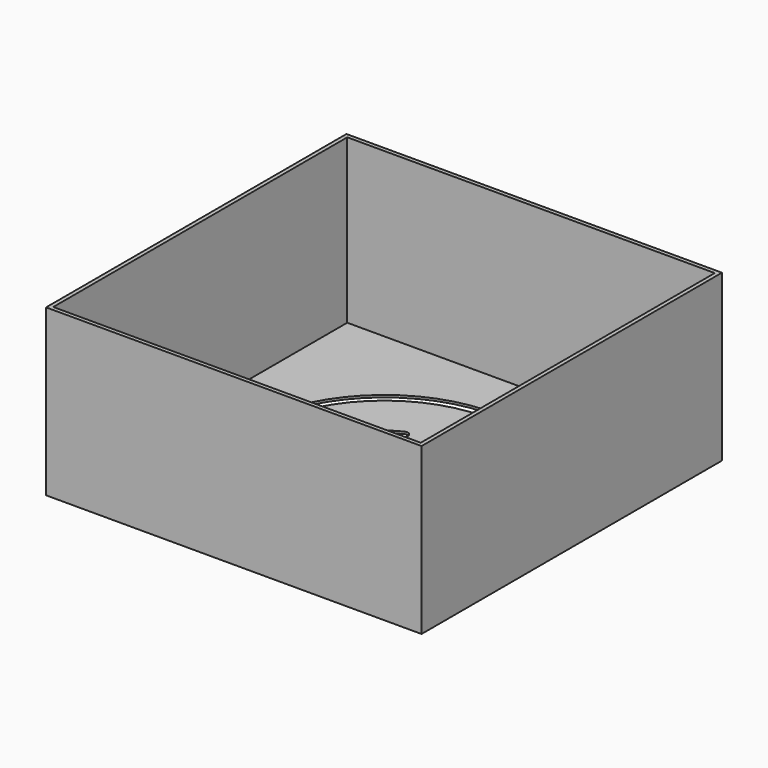
from build123d import *

# Parameters (mm, degrees)
F0_W     = 118
F0_H     = 118
F1_DEPTH = 52
F2_W     = 115.5
F2_H     = 115.5
F3_DEPTH = 51.3
F4_R     = 2
F5_DEPTH = 25


with BuildPart() as f1:
    # F0 (on Top) → F1 (new body)
    with BuildSketch(Plane.XY):
        Rectangle(F0_W, F0_H)
    extrude(amount=F1_DEPTH)

    # F2 (on face) → F3 (cut)
    with BuildSketch(Plane.XY.offset(52)):
        Rectangle(F2_W, F2_H)
    extrude(amount=-F3_DEPTH, mode=Mode.SUBTRACT)

    # F4 (on face) → F5 (cut)
    with BuildSketch(Plane(origin=(0, 0, 0), x_dir=(1, 0, 0), z_dir=(0, 0, -1))):
        with BuildLine():
            ThreePointArc((38.543689, 9.640613), (40.359387, 8.543689), (41.456311, 10.359387))
            ThreePointArc((41.456311, 10.359387), (0, 42.82883), (-41.456311, 10.359387))
            ThreePointArc((-41.456311, 10.359387), (-40.359387, 8.543689), (-38.543689, 9.640613))
            ThreePointArc((-38.543689, 9.640613), (0, 39.82883), (38.543689, 9.640613))
        make_face()
        with BuildLine():
            ThreePointArc((41.456311, -10.359387), (40.359387, -8.543689), (38.543689, -9.640613))
            ThreePointArc((38.543689, -9.640613), (0, -39.82883), (-38.543689, -9.640613))
            ThreePointArc((-38.543689, -9.640613), (-40.359387, -8.543689), (-41.456311, -10.359387))
            ThreePointArc((-41.456311, -10.359387), (0, -42.82883), (41.456311, -10.359387))
        make_face()
        with BuildLine():
            ThreePointArc((9.337938, -18.654015), (8.654015, -20.662062), (10.662062, -21.345985))
            ThreePointArc((10.662062, -21.345985), (23.950936, 0), (10.662062, 21.345985))
            ThreePointArc((10.662062, 21.345985), (8.654015, 20.662062), (9.337938, 18.654015))
            ThreePointArc((9.337938, 18.654015), (20.950936, 0), (9.337938, -18.654015))
        make_face()
        with BuildLine():
            ThreePointArc((-9.337938, -18.654015), (-20.950936, 0), (-9.337938, 18.654015))
            ThreePointArc((-9.337938, 18.654015), (-8.654015, 20.662062), (-10.662062, 21.345985))
            ThreePointArc((-10.662062, 21.345985), (-23.950936, 0), (-10.662062, -21.345985))
            ThreePointArc((-10.662062, -21.345985), (-8.654015, -20.662062), (-9.337938, -18.654015))
        make_face()
        Circle(F4_R)
    extrude(amount=-F5_DEPTH, mode=Mode.SUBTRACT)


solid = f1.part
